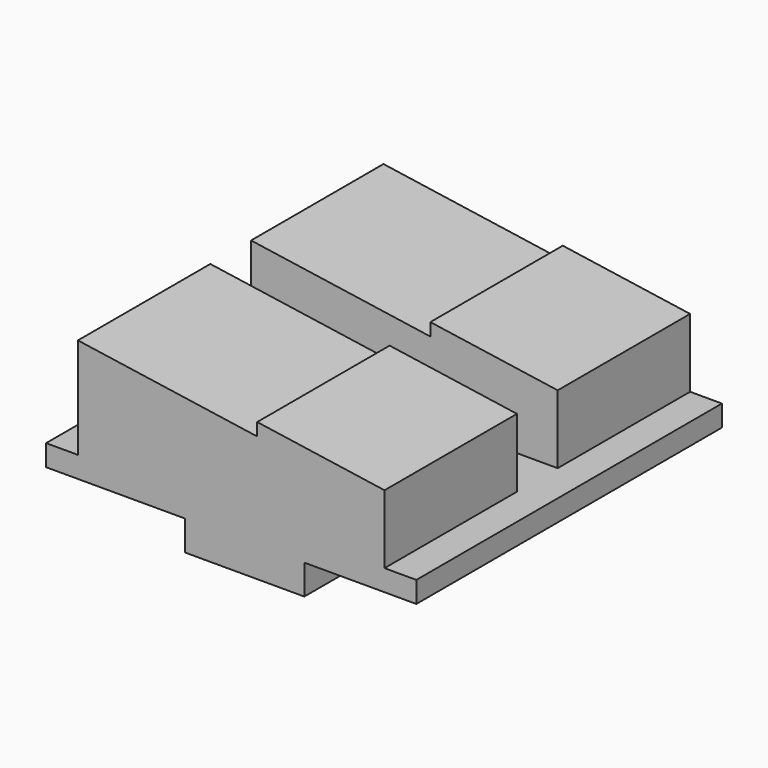
from build123d import *

# Parameters (mm, degrees)
PAD006_DEPTH    = 18
SKETCH017_W     = 17.45
SKETCH017_H     = 2.4
POCKET010_DEPTH = 6.75
SKETCH018_W     = 5.63
SKETCH018_H     = 7.8
PAD007_DEPTH    = 0.66


with BuildPart() as part:
    # Sketch016 → Pad006 (new body)
    with BuildSketch(Plane.XZ):
        Polygon((21.151384, 8.480667), (15.151384, 9.360667), (15.151384, 8.760667), (6.701384, 10), (6.701384, 5.25), (5.201384, 5.25), (5.201384, 4.25), (11.74, 4.25), (11.74, 3.5), (17.37, 3.5), (17.37, 4.25), (22.651384, 4.25), (22.651384, 5.25), (21.151384, 5.25), align=None)
    extrude(amount=PAD006_DEPTH)

    # Sketch017 → Pocket010 (cut)
    with BuildSketch(Plane.XY.offset(12)):
        with Locations((13.926384, -9)):
            Rectangle(SKETCH017_W, SKETCH017_H)
    extrude(amount=-POCKET010_DEPTH, mode=Mode.SUBTRACT)

    # Sketch018 (on Face13 of Pocket010) → Pad007 (join)
    with BuildSketch(Plane(origin=(0, 0, 3.5), x_dir=(1, 0, 0), z_dir=(0, 0, -1))):
        with Locations((14.555, 14.1)):
            Rectangle(SKETCH018_W, SKETCH018_H)
    extrude(amount=PAD007_DEPTH)


with BuildPart() as part_1:
    # Body003 placement: moved
    add(part.part.moved(Location((0, -37.5, 0))))


solid = part_1.part
